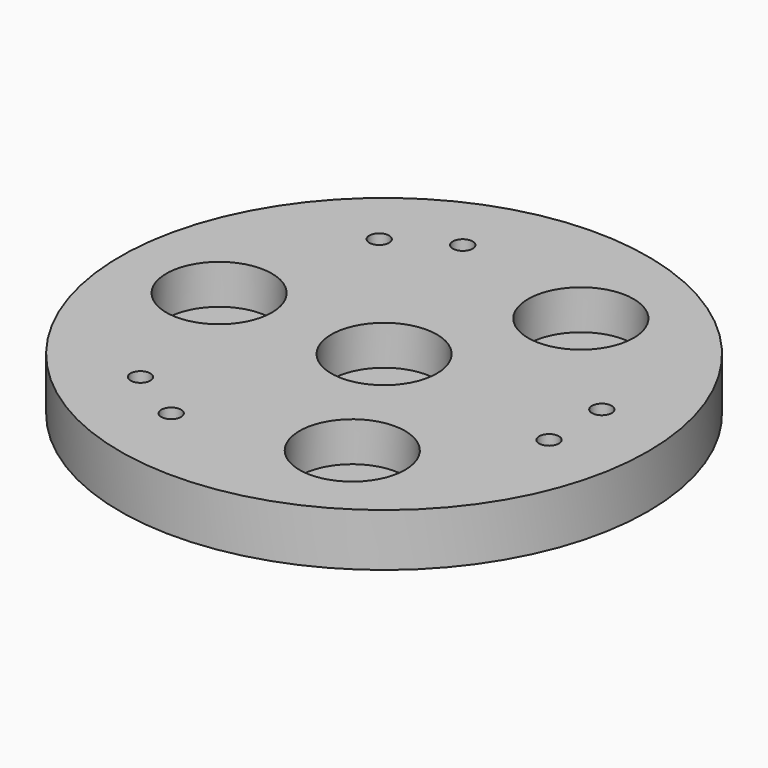
from build123d import *

# Parameters (mm, degrees)
CYLINDER271_R               = 8
CYLINDER271_DEPTH           = 6
CYLINDER271_PLACEMENT_ANGLE = 240
CYLINDER272_R               = 3
CYLINDER272_DEPTH           = 3
CYLINDER232_R               = 3
CYLINDER232_DEPTH           = 3
COMPOUND244_PLACEMENT_ANGLE = 240
COMPOUND214_PLACEMENT_ANGLE = 120
CYLINDER233_R               = 1.5
CYLINDER233_DEPTH           = 60
CYLINDER234_R               = 1.5
CYLINDER234_DEPTH           = 60
COMPOUND240_PLACEMENT_ANGLE = 240
COMPOUND215_PLACEMENT_ANGLE = 120
CYLINDER268_R               = 15
CYLINDER268_DEPTH           = 20
CYLINDER269_R               = 8
CYLINDER269_DEPTH           = 6
CYLINDER269_PLACEMENT_ANGLE = 120
CYLINDER231_R               = 8
CYLINDER231_DEPTH           = 6
CYLINDER231_PLACEMENT_ANGLE = 240
CYLINDER270_R               = 8
CYLINDER270_DEPTH           = 6
CYLINDER267_R               = 40
CYLINDER267_DEPTH           = 8


with BuildPart() as obj1:
    # Cylinder271 → Cylinder271 (new body)
    with BuildSketch(Plane.XY):
        Circle(CYLINDER271_R)
    extrude(amount=CYLINDER271_DEPTH)


with BuildPart() as obj1_1:
    # Cylinder271 placement: moved
    add(obj1.part.moved(Location((0, 0, 2))).rotate(Axis((0, 0, 2), (0, 0, 1)), CYLINDER271_PLACEMENT_ANGLE))


with BuildPart() as obj2:
    # Cylinder272 → Cylinder272 (new body)
    with BuildSketch(Plane(origin=(29, -5, -6), x_dir=(1, 0, 0), z_dir=(0, 0, 1))):
        Circle(CYLINDER272_R)
    extrude(amount=CYLINDER272_DEPTH)


with BuildPart() as obj3:
    # Cylinder232 → Cylinder232 (new body)
    with BuildSketch(Plane(origin=(29, 5, -6), x_dir=(1, 0, 0), z_dir=(0, 0, 1))):
        Circle(CYLINDER232_R)
    extrude(amount=CYLINDER232_DEPTH)


with BuildPart() as compound244:
    # Compound244 base: copy of obj3
    add(obj3.part)

    # Compound244: union obj2
    add(obj2.part)


with BuildPart() as compound244_1:
    # Compound244 placement: moved
    add(compound244.part.moved(Location((0, 0, 6))).rotate(Axis((0, 0, 6), (0, 0, 1)), COMPOUND244_PLACEMENT_ANGLE))


with BuildPart() as compound246:
    # Compound246 base: copy of obj3
    add(obj3.part)

    # Compound246: union obj2
    add(obj2.part)


with BuildPart() as compound246_1:
    # Compound246 placement: moved
    add(compound246.part.moved(Location((0, 0, 6))))


with BuildPart() as compound242:
    # Compound214 base: copy of obj3
    add(obj3.part)

    # Compound214: union obj2
    add(obj2.part)


with BuildPart() as compound242_1:
    # Compound214 placement: moved
    add(compound242.part.moved(Location((0, 0, 6))).rotate(Axis((0, 0, 6), (0, 0, 1)), COMPOUND214_PLACEMENT_ANGLE))

    # Compound242: union Compound244, Compound246
    add(compound244_1.part)
    add(compound246_1.part)


with BuildPart() as obj4:
    # Cylinder233 → Cylinder233 (new body)
    with BuildSketch(Plane(origin=(29, -5, -6), x_dir=(1, 0, 0), z_dir=(0, 0, 1))):
        Circle(CYLINDER233_R)
    extrude(amount=CYLINDER233_DEPTH)


with BuildPart() as obj5:
    # Cylinder234 → Cylinder234 (new body)
    with BuildSketch(Plane(origin=(29, 5, -6), x_dir=(1, 0, 0), z_dir=(0, 0, 1))):
        Circle(CYLINDER234_R)
    extrude(amount=CYLINDER234_DEPTH)


with BuildPart() as compound240:
    # Compound240 base: copy of obj5
    add(obj5.part)

    # Compound240: union obj4
    add(obj4.part)


with BuildPart() as compound240_1:
    # Compound240 placement: moved
    add(compound240.part.rotate(Axis((0, 0, 0), (0, 0, 1)), COMPOUND240_PLACEMENT_ANGLE))


with BuildPart() as compound243:
    # Compound243 base: copy of obj5
    add(obj5.part)

    # Compound243: union obj4
    add(obj4.part)


with BuildPart() as compound238:
    # Compound215 base: copy of obj5
    add(obj5.part)

    # Compound215: union obj4
    add(obj4.part)


with BuildPart() as compound238_1:
    # Compound215 placement: moved
    add(compound238.part.rotate(Axis((0, 0, 0), (0, 0, 1)), COMPOUND215_PLACEMENT_ANGLE))

    # Compound238: union Compound240, Compound243
    add(compound240_1.part)
    add(compound243.part)


with BuildPart() as obj6:
    # Cylinder268 → Cylinder268 (new body)
    with BuildSketch(Plane.XY.offset(-100)):
        Circle(CYLINDER268_R)
    extrude(amount=CYLINDER268_DEPTH)


with BuildPart() as obj7:
    # Cylinder269 → Cylinder269 (new body)
    with BuildSketch(Plane.XY):
        Circle(CYLINDER269_R)
    extrude(amount=CYLINDER269_DEPTH)


with BuildPart() as obj7_1:
    # Cylinder269 placement: moved
    add(obj7.part.moved(Location((12.5, -21.65, 2))).rotate(Axis((12.5, -21.65, 2), (0, 0, 1)), CYLINDER269_PLACEMENT_ANGLE))


with BuildPart() as obj8:
    # Cylinder231 → Cylinder231 (new body)
    with BuildSketch(Plane.XY):
        Circle(CYLINDER231_R)
    extrude(amount=CYLINDER231_DEPTH)


with BuildPart() as obj8_1:
    # Cylinder231 placement: moved
    add(obj8.part.moved(Location((12.5, 21.65, 2))).rotate(Axis((12.5, 21.65, 2), (0, 0, 1)), CYLINDER231_PLACEMENT_ANGLE))


with BuildPart() as compound239:
    # Cylinder270 → Cylinder270 (new body)
    with BuildSketch(Plane(origin=(-25, 0, 2), x_dir=(1, 0, 0), z_dir=(0, 0, 1))):
        Circle(CYLINDER270_R)
    extrude(amount=CYLINDER270_DEPTH)

    # Compound239: union obj7, obj8
    add(obj7_1.part)
    add(obj8_1.part)


with BuildPart() as cut116:
    # Cylinder267 → Cylinder267 (new body)
    with BuildSketch(Plane.XY):
        Circle(CYLINDER267_R)
    extrude(amount=CYLINDER267_DEPTH)

    # Cut113: cut Compound239
    add(compound239.part, mode=Mode.SUBTRACT)

    # Cut112: cut obj6
    add(obj6.part, mode=Mode.SUBTRACT)

    # Cut114: cut Compound238
    add(compound238_1.part, mode=Mode.SUBTRACT)

    # Cut115: cut Compound242
    add(compound242_1.part, mode=Mode.SUBTRACT)

    # Cut116: cut obj1
    add(obj1_1.part, mode=Mode.SUBTRACT)


solid = cut116.part
